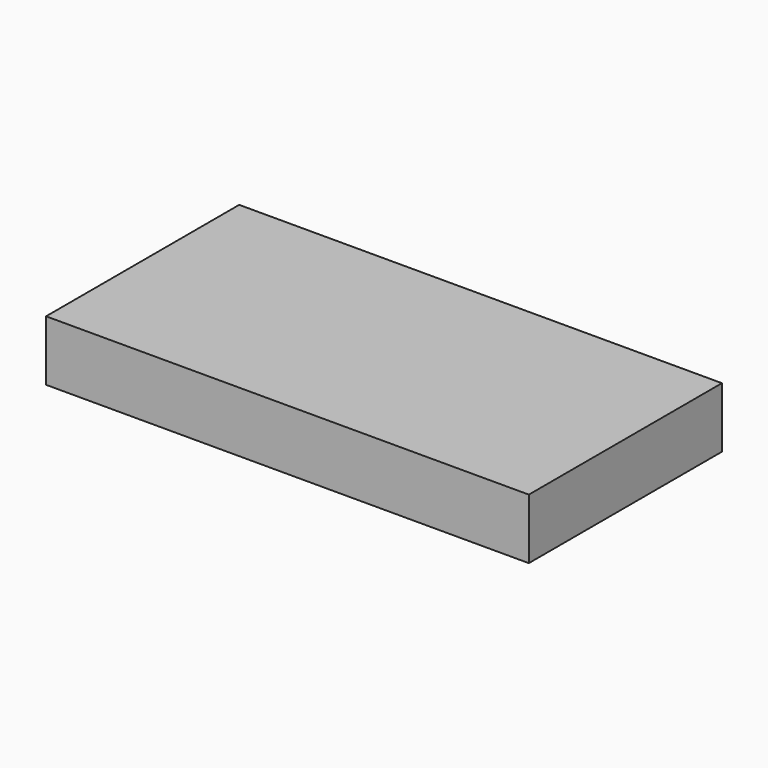
from build123d import *

# Parameters (mm, degrees)
F0_W     = 400
F0_H     = 200
F1_DEPTH = 50
F2_W     = 360
F2_H     = 160
F3_DEPTH = 25
F4_R     = 5
F5_DEPTH = 20


with BuildPart() as f1:
    # F0 (on Top) → F1 (new body)
    with BuildSketch(Plane.XY):
        Rectangle(F0_W, F0_H)
    extrude(amount=F1_DEPTH)

    # F2 (on face) → F3 (cut)
    with BuildSketch(Plane(origin=(0, 0, 0), x_dir=(1, 0, 0), z_dir=(0, 0, -1))):
        Rectangle(F2_W, F2_H)
    extrude(amount=-F3_DEPTH, mode=Mode.SUBTRACT)

    # F4 (on face) → F5 (cut)
    with BuildSketch(Plane(origin=(0, 0, 0), x_dir=(1, 0, 0), z_dir=(0, 0, -1))):
        with Locations((-150, -90)):
            Circle(F4_R)
        with Locations((-110, -90)):
            Circle(F4_R)
        with Locations((110, -90)):
            Circle(F4_R)
        with Locations((150, -90)):
            Circle(F4_R)
    extrude(amount=-F5_DEPTH, mode=Mode.SUBTRACT)


solid = f1.part
